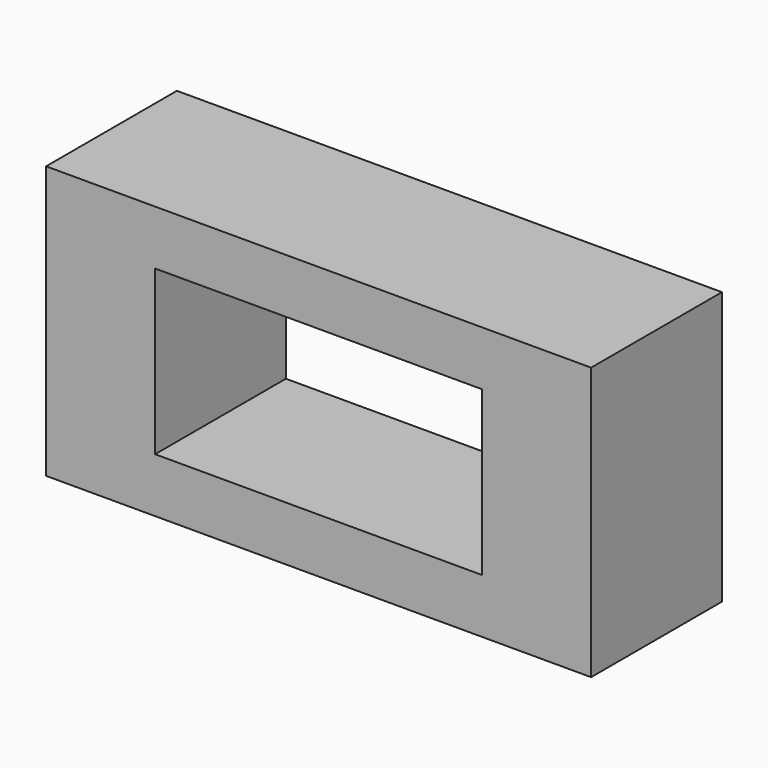
from build123d import *

# Parameters (mm, degrees)
F0_W     = 76.2
F0_H     = 38.1
F1_DEPTH = 38.1


with BuildPart() as f1:
    # F0 (on Front) → F1 (new body)
    with BuildSketch(Plane.XZ):
        Polygon((-53.589837, -26.378524), (-53.589837, -39.078524), (-28.189837, -39.078524), (48.010163, -39.078524), (73.410163, -39.078524), (73.410163, -26.378524), (73.410163, 11.721476), (73.410163, 24.421476), (48.010163, 24.421476), (-28.189837, 24.421476), (-53.589837, 24.421476), (-53.589837, 11.721476), align=None)
        with Locations((9.910163, -7.328524)):
            Rectangle(F0_W, F0_H, mode=Mode.SUBTRACT)
    extrude(amount=F1_DEPTH)


solid = f1.part
